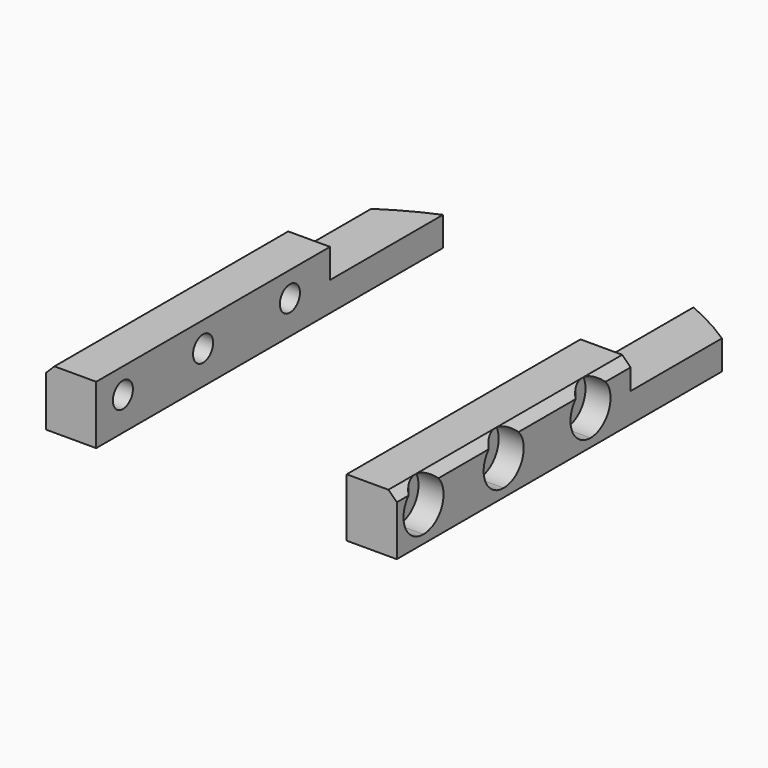
from build123d import *

# Parameters (mm, degrees)
BOX1065_W          = 48
BOX1065_H          = 20
BOX1065_DEPTH      = 18
CYLINDER2846_R     = 1.5
CYLINDER2846_DEPTH = 64
CYLINDER2847_R     = 1.5
CYLINDER2847_DEPTH = 64
CYLINDER2838_R     = 1.5
CYLINDER2838_DEPTH = 64
CYLINDER2843_R     = 3
CYLINDER2843_DEPTH = 3
CYLINDER2849_R     = 3
CYLINDER2849_DEPTH = 3
CYLINDER2845_R     = 3
CYLINDER2845_DEPTH = 3
CYLINDER2844_R     = 3
CYLINDER2844_DEPTH = 3
CYLINDER2837_R     = 3
CYLINDER2837_DEPTH = 3
CYLINDER2848_R     = 3
CYLINDER2848_DEPTH = 3
CYLINDER2841_R     = 38
CYLINDER2841_DEPTH = 20
BOX1064_W          = 6
BOX1064_H          = 54
BOX1064_DEPTH      = 7
BOX1063_W          = 6
BOX1063_H          = 54
BOX1063_DEPTH      = 7
CHAMFER157_SIZE    = 1


with BuildPart() as krychle1064:
    # Box1065 → Box1065 (new body)
    with BuildSketch(Plane(origin=(-24, 18, 13.5), x_dir=(1, 0, 0), z_dir=(0, 0, 1))):
        with Locations((24, 10)):
            Rectangle(BOX1065_W, BOX1065_H)
    extrude(amount=BOX1065_DEPTH)


with BuildPart() as obj1:
    # Cylinder2846 → Cylinder2846 (new body)
    with BuildSketch(Plane(origin=(-26, -11, 13), x_dir=(0, 0, -1), z_dir=(1, 0, 0))):
        Circle(CYLINDER2846_R)
    extrude(amount=CYLINDER2846_DEPTH)


with BuildPart() as obj2:
    # Cylinder2847 → Cylinder2847 (new body)
    with BuildSketch(Plane(origin=(-26, 14, 13), x_dir=(0, 0, -1), z_dir=(1, 0, 0))):
        Circle(CYLINDER2847_R)
    extrude(amount=CYLINDER2847_DEPTH)


with BuildPart() as compound1268:
    # Cylinder2838 → Cylinder2838 (new body)
    with BuildSketch(Plane(origin=(-26, 1, 13), x_dir=(0, 0, -1), z_dir=(1, 0, 0))):
        Circle(CYLINDER2838_R)
    extrude(amount=CYLINDER2838_DEPTH)

    # Compound1268: union obj1, obj2
    add(obj1.part)
    add(obj2.part)


with BuildPart() as compound1268_1:
    # Compound1268 placement: moved
    add(compound1268.part.moved(Location((0, -2, 1))))


with BuildPart() as obj3:
    # Cylinder2843 → Cylinder2843 (new body)
    with BuildSketch(Plane(origin=(-26, -11, 13), x_dir=(0, 0, -1), z_dir=(1, 0, 0))):
        Circle(CYLINDER2843_R)
    extrude(amount=CYLINDER2843_DEPTH)


with BuildPart() as obj4:
    # Cylinder2849 → Cylinder2849 (new body)
    with BuildSketch(Plane(origin=(-26, 14, 13), x_dir=(0, 0, -1), z_dir=(1, 0, 0))):
        Circle(CYLINDER2849_R)
    extrude(amount=CYLINDER2849_DEPTH)


with BuildPart() as compound1270:
    # Cylinder2845 → Cylinder2845 (new body)
    with BuildSketch(Plane(origin=(-26, 1, 13), x_dir=(0, 0, -1), z_dir=(1, 0, 0))):
        Circle(CYLINDER2845_R)
    extrude(amount=CYLINDER2845_DEPTH)

    # Compound1270: union obj3, obj4
    add(obj3.part)
    add(obj4.part)


with BuildPart() as compound1270_1:
    # Compound1270 placement: moved
    add(compound1270.part.moved(Location((5, -2, 1))))


with BuildPart() as obj5:
    # Cylinder2844 → Cylinder2844 (new body)
    with BuildSketch(Plane(origin=(-26, -11, 13), x_dir=(0, 0, -1), z_dir=(1, 0, 0))):
        Circle(CYLINDER2844_R)
    extrude(amount=CYLINDER2844_DEPTH)


with BuildPart() as obj6:
    # Cylinder2837 → Cylinder2837 (new body)
    with BuildSketch(Plane(origin=(-26, 14, 13), x_dir=(0, 0, -1), z_dir=(1, 0, 0))):
        Circle(CYLINDER2837_R)
    extrude(amount=CYLINDER2837_DEPTH)


with BuildPart() as compound1269:
    # Cylinder2848 → Cylinder2848 (new body)
    with BuildSketch(Plane(origin=(-26, 1, 13), x_dir=(0, 0, -1), z_dir=(1, 0, 0))):
        Circle(CYLINDER2848_R)
    extrude(amount=CYLINDER2848_DEPTH)

    # Compound1269: union obj5, obj6
    add(obj5.part)
    add(obj6.part)


with BuildPart() as compound1269_1:
    # Compound1269 placement: moved
    add(compound1269.part.moved(Location((44, -2, 1))))


with BuildPart() as obj7:
    # Cylinder2841 → Cylinder2841 (new body)
    with BuildSketch(Plane.XY):
        Circle(CYLINDER2841_R)
    extrude(amount=CYLINDER2841_DEPTH)


with BuildPart() as krychle1063:
    # Box1064 → Box1064 (new body)
    with BuildSketch(Plane(origin=(-21, -17, 10), x_dir=(1, 0, 0), z_dir=(0, 0, 1))):
        with Locations((3, 27)):
            Rectangle(BOX1064_W, BOX1064_H)
    extrude(amount=BOX1064_DEPTH)


with BuildPart() as cut1085:
    # Box1063 → Box1063 (new body)
    with BuildSketch(Plane(origin=(15, -17, 10), x_dir=(1, 0, 0), z_dir=(0, 0, 1))):
        with Locations((3, 27)):
            Rectangle(BOX1063_W, BOX1063_H)
    extrude(amount=BOX1063_DEPTH)

    # Compound1263: union Krychle1063
    add(krychle1063.part)

    # Common013: intersect obj7
    add(obj7.part, mode=Mode.INTERSECT)

    # Chamfer157
    chamfer157_edges = [cut1085.edges().sort_by_distance(p)[0] for p in [
        (21, 7.335088, 17),
        (-21, 7.335088, 17),
    ]]
    chamfer(chamfer157_edges, length=CHAMFER157_SIZE)

    # Cut1081: cut Compound1269
    add(compound1269_1.part, mode=Mode.SUBTRACT)

    # Cut1079: cut Compound1270
    add(compound1270_1.part, mode=Mode.SUBTRACT)

    # Cut1082: cut Compound1268
    add(compound1268_1.part, mode=Mode.SUBTRACT)

    # Cut1085: cut Krychle1064
    add(krychle1064.part, mode=Mode.SUBTRACT)


solid = cut1085.part
